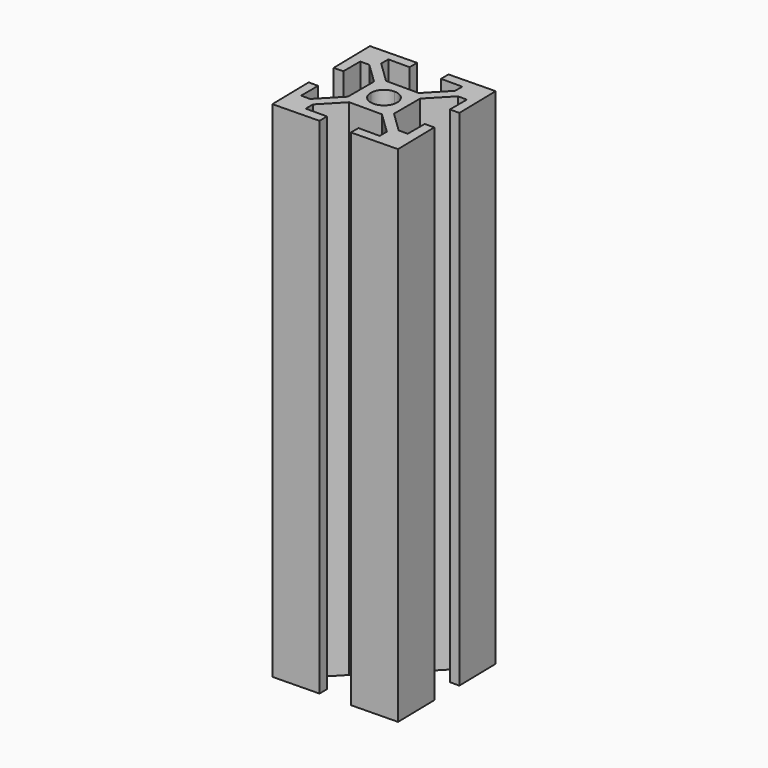
from build123d import *

# Parameters (mm, degrees)
F1_DEPTH = 80
F3_COUNT = 4


with BuildPart() as f1:
    # F0 (on Top) → F1 (new body)
    with BuildSketch(Plane.XY):
        with BuildLine():
            Line((0, 3.655), (-2.594135, 3.655))
            Line((-2.594135, 3.655), (-5.994502, 6.92418))
            Line((-5.994502, 6.92418), (-5.994502, 8.355))
            Line((-5.994502, 8.355), (-2.629502, 8.355))
            Line((-2.629502, 8.355), (-2.629502, 9.855))
            Line((-2.629502, 9.855), (-9.998107, 9.711609))
            Line((-9.998107, 9.711609), (-9.854716, 2.343004))
            Line((-9.854716, 2.343004), (-8.355, 2.372188))
            Line((-8.355, 2.372188), (-8.355, 5.737188))
            Line((-8.355, 5.737188), (-6.92418, 5.737188))
            Line((-6.92418, 5.737188), (-3.655, 2.594135))
            Line((-3.655, 2.594135), (-3.655, 0))
            Line((-3.655, 0), (-2.094884, 0))
            ThreePointArc((-2.094884, 0), (-1.481273, 1.481273), (0, 2.094884))
            Line((0, 2.094884), (0, 3.655))
        make_face()
    extrude(amount=F1_DEPTH)

    # F3: F1 ×4 about axis
    f3_axis = Axis((0, 0, 0.688764), (0, 0, 1))


with BuildPart() as f1_1:
    add(f1.part)
    for i in range(1, F3_COUNT):
        add(f1.part.rotate(f3_axis, i * 360 / F3_COUNT))


solid = f1_1.part
